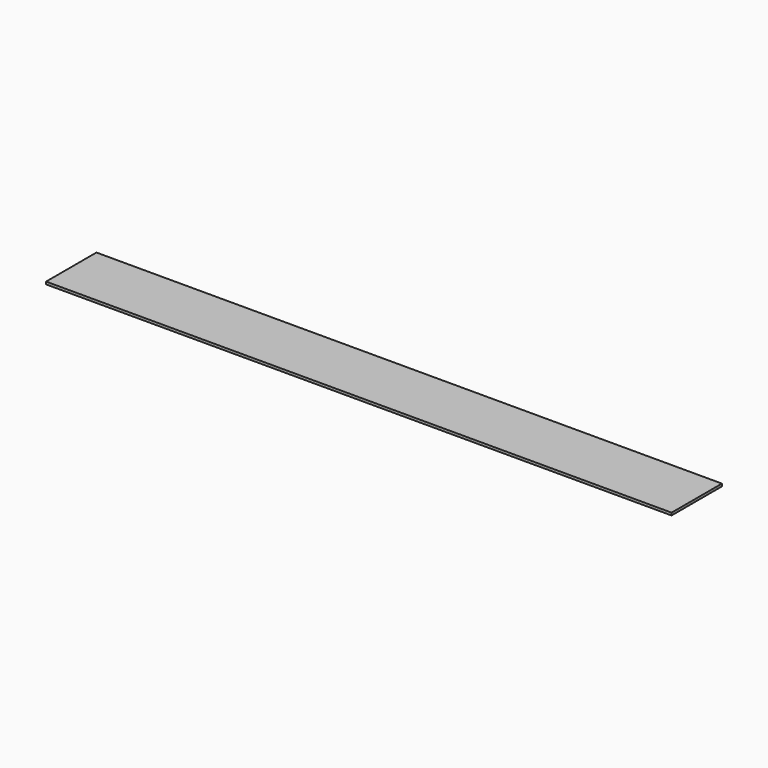
from build123d import *

# Parameters (mm, degrees)
F0_W     = 161
F0_H     = 100
F0_W_2   = 8.25
F0_W_3   = 142
F0_W_4   = 322
F1_DEPTH = 4


with BuildPart() as f1:
    # F0 (on Top) → F1 (new body)
    with BuildSketch(Plane.XY):
        with Locations((80.5, 50)):
            Rectangle(F0_W, F0_H)
        with Locations((165.125, 50)):
            Rectangle(F0_W_2, F0_H)
        with Locations((173.375, 50)):
            Rectangle(F0_W_2, F0_H)
        with Locations((248.5, 50)):
            Rectangle(F0_W_3, F0_H)
        with Locations((323.625, 50)):
            Rectangle(F0_W_2, F0_H)
        with Locations((331.875, 50)):
            Rectangle(F0_W_2, F0_H)
        with Locations((497, 50)):
            Rectangle(F0_W_4, F0_H)
        with Locations((662.125, 50)):
            Rectangle(F0_W_2, F0_H)
        with Locations((670.375, 50)):
            Rectangle(F0_W_2, F0_H)
        with Locations((745.5, 50)):
            Rectangle(F0_W_3, F0_H)
        with Locations((820.625, 50)):
            Rectangle(F0_W_2, F0_H)
        with Locations((828.875, 50)):
            Rectangle(F0_W_2, F0_H)
        with Locations((913.5, 50)):
            Rectangle(F0_W, F0_H)
    extrude(amount=-F1_DEPTH)


solid = f1.part
